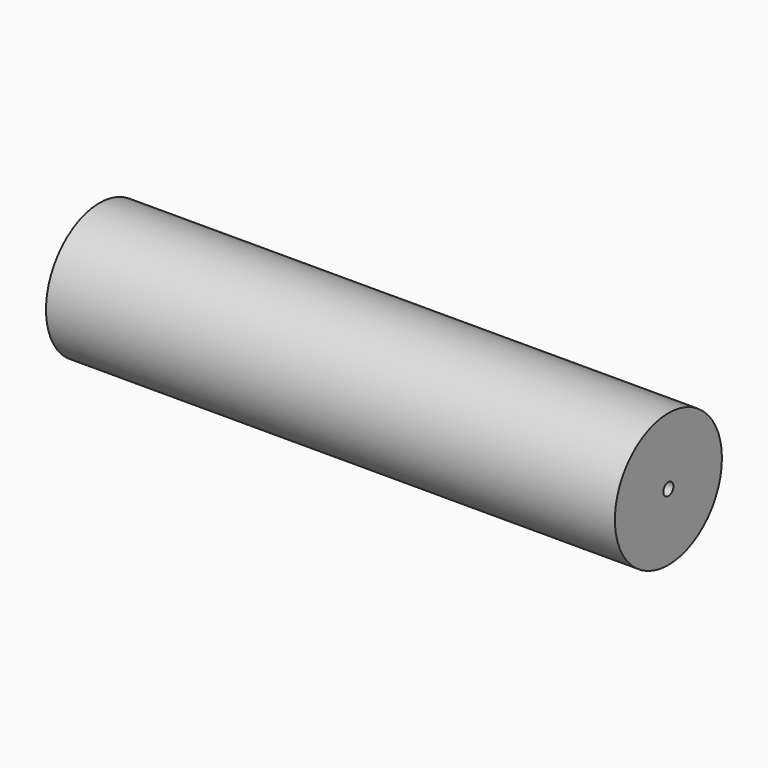
from build123d import *

# Parameters (mm, degrees)
F1_R          = 12.7
F2_DEPTH      = 65
F2_DEPTH_BACK = 43


with BuildPart() as f2:
    # F1 (on Right) → F2 (new body, two sides)
    with BuildSketch(Plane.YZ) as f2_sk:
        Circle(F1_R)
    extrude(amount=F2_DEPTH)
    extrude(f2_sk.sketch, amount=-F2_DEPTH_BACK)

    # F0 (on Front) → F3 (revolve, cut)
    with BuildSketch(Plane.XZ):
        Polygon((-43, 0), (0, 0), (65, 0), (65, 1.190625), (10, 2.25), (0, 2.25), (-10, 2.25), (-43, 8), align=None)
    revolve(axis=Axis((-21.5, 0, 0), (1, 0, 0)), mode=Mode.SUBTRACT)


solid = f2.part
